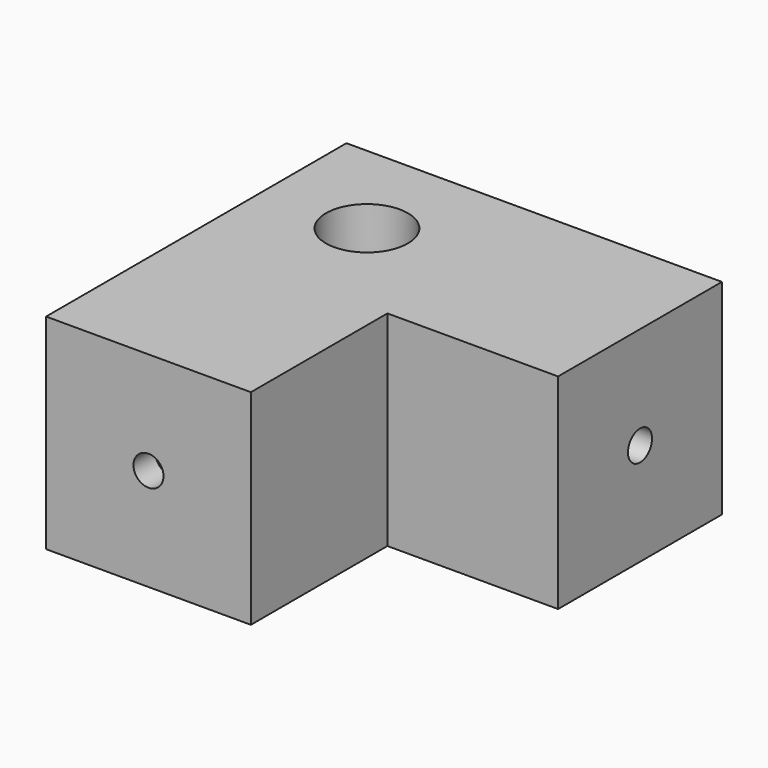
from build123d import *

# Parameters (mm, degrees)
CYLINDER006_R     = 2.2
CYLINDER006_DEPTH = 10
CYLINDER007_R     = 6
CYLINDER007_DEPTH = 51
CYLINDER005_R     = 2.2
CYLINDER005_DEPTH = 10
CYLINDER004_R     = 6
CYLINDER004_DEPTH = 26
CYLINDER008_R     = 6
CYLINDER008_DEPTH = 51
CYLINDER009_R     = 2.2
CYLINDER009_DEPTH = 30
BOX002_W          = 25
BOX002_H          = 30
BOX002_DEPTH      = 30
BOX_W             = 30
BOX_H             = 30
BOX_DEPTH         = 30
BOX001_W          = 30
BOX001_H          = 25
BOX001_DEPTH      = 30


with BuildPart() as cylinder006:
    # Cylinder006 → Cylinder006 (new body)
    with BuildSketch(Plane(origin=(15, -15, 15), x_dir=(1, 0, 0), z_dir=(0, -1, 0))):
        Circle(CYLINDER006_R)
    extrude(amount=CYLINDER006_DEPTH)


with BuildPart() as cylinder007:
    # Cylinder007 → Cylinder007 (new body)
    with BuildSketch(Plane(origin=(0, 15, 15), x_dir=(0, 0, -1), z_dir=(1, 0, 0))):
        Circle(CYLINDER007_R)
    extrude(amount=CYLINDER007_DEPTH)


with BuildPart() as cylinder005:
    # Cylinder005 → Cylinder005 (new body)
    with BuildSketch(Plane(origin=(45, 15, 15), x_dir=(0, 0, -1), z_dir=(1, 0, 0))):
        Circle(CYLINDER005_R)
    extrude(amount=CYLINDER005_DEPTH)


with BuildPart() as cylinder004:
    # Cylinder004 → Cylinder004 (new body)
    with BuildSketch(Plane(origin=(15, 15, 4), x_dir=(1, 0, 0), z_dir=(0, 0, 1))):
        Circle(CYLINDER004_R)
    extrude(amount=CYLINDER004_DEPTH)


with BuildPart() as cylinder008:
    # Cylinder008 → Cylinder008 (new body)
    with BuildSketch(Plane(origin=(15, 30, 15), x_dir=(1, 0, 0), z_dir=(0, -1, 0))):
        Circle(CYLINDER008_R)
    extrude(amount=CYLINDER008_DEPTH)


with BuildPart() as corner_inner_cut:
    # Cylinder009 → Cylinder009 (new body)
    with BuildSketch(Plane(origin=(15, 15, 0), x_dir=(1, 0, 0), z_dir=(0, 0, 1))):
        Circle(CYLINDER009_R)
    extrude(amount=CYLINDER009_DEPTH)

    # Fusion020006007003002013004: union Cylinder006, Cylinder007, Cylinder005, Cylinder004, Cylinder008
    add(cylinder006.part)
    add(cylinder007.part)
    add(cylinder005.part)
    add(cylinder004.part)
    add(cylinder008.part)


with BuildPart() as cube002:
    # Box002 → Box002 (new body)
    with BuildSketch(Plane(origin=(30, 0, 0), x_dir=(1, 0, 0), z_dir=(0, 0, 1))):
        with Locations((12.5, 15)):
            Rectangle(BOX002_W, BOX002_H)
    extrude(amount=BOX002_DEPTH)


with BuildPart() as cube:
    # Box → Box (new body)
    with BuildSketch(Plane.XY):
        with Locations((15, 15)):
            Rectangle(BOX_W, BOX_H)
    extrude(amount=BOX_DEPTH)


with BuildPart() as corner_base:
    # Box001 → Box001 (new body)
    with BuildSketch(Plane(origin=(0, -25, 0), x_dir=(1, 0, 0), z_dir=(0, 0, 1))):
        with Locations((15, 12.5)):
            Rectangle(BOX001_W, BOX001_H)
    extrude(amount=BOX001_DEPTH)

    # Fusion: union Cube002, Cube
    add(cube002.part)
    add(cube.part)

    # Cut: cut corner-inner-cut
    add(corner_inner_cut.part, mode=Mode.SUBTRACT)


solid = corner_base.part
